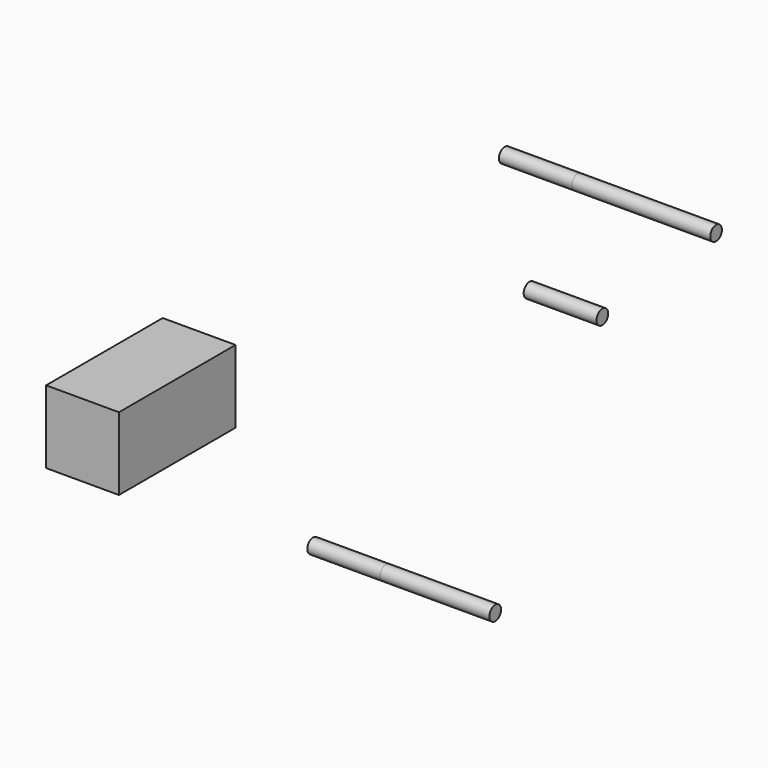
from build123d import *

# Parameters (mm, degrees)
F0_R     = 1.27
F1_DEPTH = 31.75
F2_DEPTH = 36.83
F0_W     = 25.4
F0_H     = 12.7
F3_DEPTH = 2.54
F4_DEPTH = 12.7


with BuildPart() as f1:
    # F0 (on Right) → F1 (new body)
    with BuildSketch(Plane.YZ):
        Circle(F0_R)
    extrude(amount=F1_DEPTH)


with BuildPart() as f2:
    # F0 (on Right) → F2 (new body)
    with BuildSketch(Plane.YZ):
        with Locations((41.75606, 42.966802)):
            Circle(F0_R)
    extrude(amount=F2_DEPTH)


with BuildPart() as f3:
    # F0 (on Right) → F3 (new body)
    with BuildSketch(Plane.YZ):
        with Locations((-45.472408, 41.902002)):
            Rectangle(F0_W, F0_H)
    extrude(amount=F3_DEPTH)


with BuildPart() as f4:
    # F0 (on Right) → F4 (new body)
    with BuildSketch(Plane.YZ):
        Circle(F0_R)
        with Locations((41.75606, 42.966802)):
            Circle(F0_R)
        with Locations((-45.472408, 41.902002)):
            Rectangle(F0_W, F0_H)
        with Locations((47.14394, 20.068318)):
            Circle(F0_R)
    extrude(amount=F4_DEPTH)


solid = Compound([f1.part, f2.part, f3.part, f4.part])
